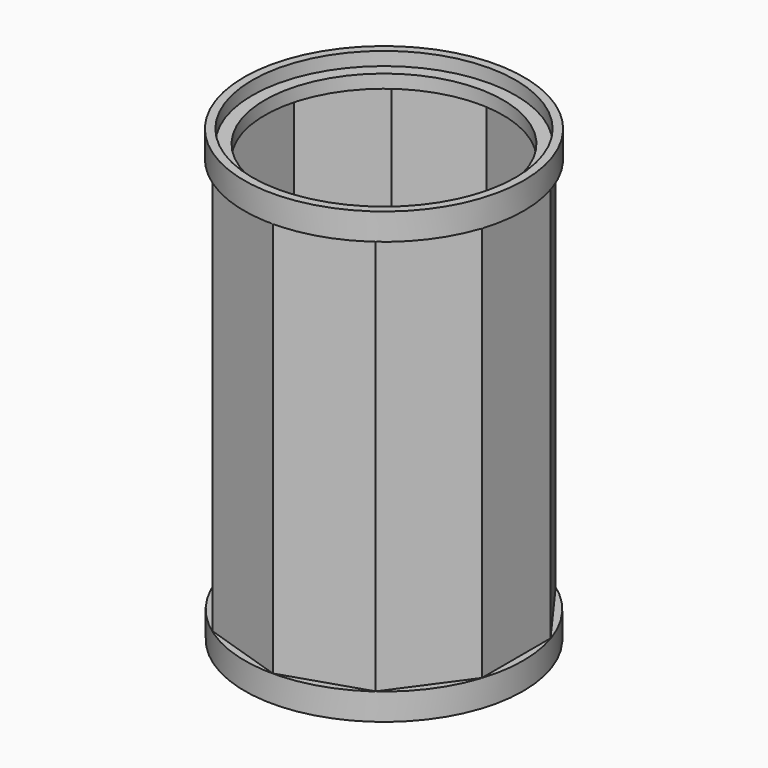
from build123d import *

# Parameters (mm, degrees)
F1_DEPTH  = 188.214
F2_R      = 66.1431803404
F3_DEPTH  = 12.7
F5_R      = 66.454962085
F6_DEPTH  = 12.7
F8_R      = 62.5696194111
F9_DEPTH  = 25.4
F10_R     = 56.575713998
F11_DEPTH = 25.4
F13_R     = 12.4381186973
F14_DEPTH = 25.4


with BuildPart() as f1:
    # F0 (on Top) → F1 (new body)
    with BuildSketch(Plane.XY):
        Polygon((62.7887994051, -20.4013176295), (62.7887994051, 20.4013176295), (38.8056121451, 53.4113429694), (0, 66.0200506797), (-38.8056121451, 53.4113429694), (-62.7887994051, 20.4013176295), (-62.7887994051, -20.4013176295), (-38.8056121451, -53.4113429694), (0, -66.0200506797), (38.8056121451, -53.4113429694), align=None)
        Polygon((35.7915863644, 49.262892377), (57.9120032489, 18.8167505039), (57.9120032489, -18.8167505039), (35.7915863644, -49.262892377), (0, -60.8922837462), (-35.7915863644, -49.262892377), (-57.9120032489, -18.8167505039), (-57.9120032489, 18.8167505039), (-35.7915863644, 49.262892377), (0, 60.8922837462), align=None, mode=Mode.SUBTRACT)
    extrude(amount=F1_DEPTH)

    # F2 (on Top) → F3 (join)
    with BuildSketch(Plane.XY):
        Circle(F2_R)
    extrude(amount=-F3_DEPTH)


with BuildPart() as f1_1:
    # F4: moved
    add(f1.part.moved(Location((0, 0, -188.214))))

    # F5 (on Top) → F6 (join)
    with BuildSketch(Plane.XY):
        Circle(F5_R)
    extrude(amount=F6_DEPTH)


with BuildPart() as f1_2:
    # F7: moved
    add(f1_1.part.moved(Location((0, 0, -6.35))))

    # F8 (on Top) → F9 (cut)
    with BuildSketch(Plane.XY):
        Circle(F8_R)
    extrude(amount=F9_DEPTH, mode=Mode.SUBTRACT)

    # F10 (on Top) → F11 (cut)
    with BuildSketch(Plane.XY):
        Circle(F10_R)
    extrude(amount=-F11_DEPTH, mode=Mode.SUBTRACT)


with BuildPart() as f1_3:
    # F12: moved
    add(f1_2.part.moved(Location((0, 0, 194.564))))

    # F13 (on Top) → F14 (cut)
    with BuildSketch(Plane.XY):
        Circle(F13_R)
    extrude(amount=-F14_DEPTH, mode=Mode.SUBTRACT)


with BuildPart() as f1_4:
    # F15: moved
    add(f1_3.part.moved(Location((0, 0, -194.564))))


solid = f1_4.part
